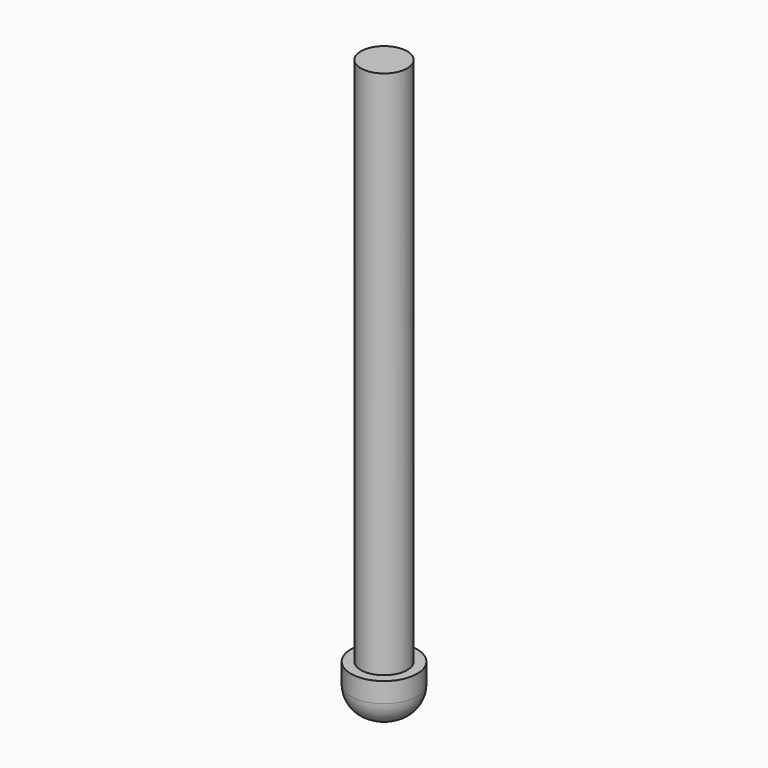
from build123d import *

# Parameters (mm, degrees)
F0_R     = 1.75
F1_DEPTH = 40
F0_R_2   = 2.5
F2_DEPTH = 3.5
F3_R     = 2


with BuildPart() as f1:
    # F0 (on Top) → F1 (new body)
    with BuildSketch(Plane.XY):
        Circle(F0_R)
    extrude(amount=F1_DEPTH)

    # F0 (on Top) → F2 (join)
    with BuildSketch(Plane.XY):
        Circle(F0_R_2)
        Circle(F0_R, mode=Mode.SUBTRACT)
        Circle(F0_R)
    extrude(amount=-F2_DEPTH)

    # F3
    f3_edges = [f1.edges().sort_by_distance(p)[0] for p in [
        (-2.5, 0, -3.5),
    ]]
    fillet(f3_edges, radius=F3_R)


solid = f1.part
